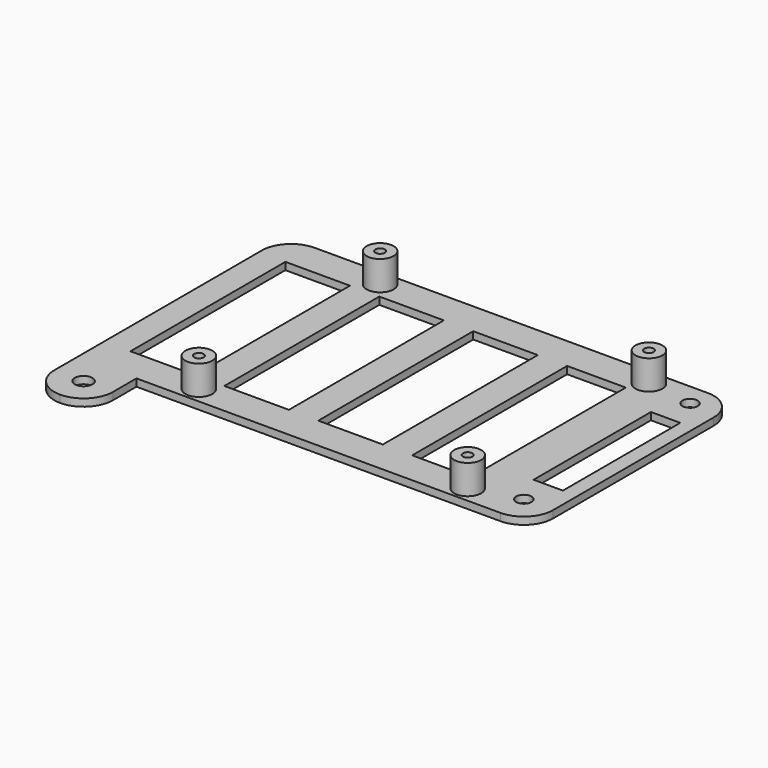
from build123d import *

# Parameters (mm, degrees)
F0_R     = 1.651
F0_W     = 6.35
F0_H     = 31.75
F0_R_2   = 1.905
F1_DEPTH = 1.5875
F2_W     = 12.7
F2_H     = 41.91
F2_W_2   = 13.97
F3_DEPTH = 6.35
F4_R     = 2.921
F4_R_2   = 1.016
F5_DEPTH = 6.35
F6_DEPTH = 6.35


with BuildPart() as f1:
    # F0 (on Top) → F1 (new body)
    with BuildSketch(Plane.XY):
        with BuildLine():
            Line((42.545, -28.067), (42.545, 28.067))
            Line((42.545, 28.067), (-36.195, 28.067))
            ThreePointArc((-36.195, 28.067), (-40.6851280605, 26.2071280605), (-42.545, 21.717))
            Line((-42.545, 21.717), (-42.545, -28.067))
            Line((-42.545, -28.067), (-29.845, -28.067))
            Line((-29.845, -28.067), (42.545, -28.067))
        make_face()
        with BuildLine():
            Line((48.895, 28.067), (42.545, 28.067))
            Line((42.545, 28.067), (42.545, -28.067))
            Line((42.545, -28.067), (48.895, -28.067))
            ThreePointArc((48.895, -28.067), (53.3851280605, -26.2071280605), (55.245, -21.717))
            Line((55.245, -21.717), (55.245, 21.717))
            ThreePointArc((55.245, 21.717), (53.3851280605, 26.2071280605), (48.895, 28.067))
        make_face()
        with Locations((48.895, -21.717)):
            Circle(F0_R, mode=Mode.SUBTRACT)
        with Locations((48.895, 0.762)):
            Rectangle(F0_W, F0_H, mode=Mode.SUBTRACT)
        with Locations((48.895, 23.241)):
            Circle(F0_R, mode=Mode.SUBTRACT)
        with BuildLine():
            Line((-29.845, -34.417), (-29.845, -28.067))
            Line((-29.845, -28.067), (-42.545, -28.067))
            Line((-42.545, -28.067), (-42.545, -34.417))
            ThreePointArc((-42.545, -34.417), (-40.6851280605, -38.9071280605), (-36.195, -40.767))
            ThreePointArc((-36.195, -40.767), (-31.7048719395, -38.9071280605), (-29.845, -34.417))
        make_face()
        with Locations((-36.195, -34.417)):
            Circle(F0_R_2, mode=Mode.SUBTRACT)
    extrude(amount=F1_DEPTH)

    # F2 (on face) → F3 (cut)
    with BuildSketch(Plane.XY.offset(1.5875)):
        with Locations((30.48, 0)):
            Rectangle(F2_W, F2_H)
        with Locations((10.795, 0)):
            Rectangle(F2_W_2, F2_H)
        with Locations((-9.525, 0)):
            Rectangle(F2_W_2, F2_H)
        with Locations((-29.845, 0)):
            Rectangle(F2_W_2, F2_H)
    extrude(amount=-F3_DEPTH, mode=Mode.SUBTRACT)

    # F4 (on face) → F5 (join)
    with BuildSketch(Plane.XY.offset(1.5875)):
        with Locations((38.989, 24.511)):
            Circle(F4_R)
        with Locations((38.989, 24.511)):
            Circle(F4_R_2, mode=Mode.SUBTRACT)
        with Locations((38.989, -24.511)):
            Circle(F4_R)
        with Locations((38.989, -24.511)):
            Circle(F4_R_2, mode=Mode.SUBTRACT)
        with Locations((-19.177, 24.511)):
            Circle(F4_R)
        with Locations((-19.177, 24.511)):
            Circle(F4_R_2, mode=Mode.SUBTRACT)
        with Locations((-19.177, -24.511)):
            Circle(F4_R)
        with Locations((-19.177, -24.511)):
            Circle(F4_R_2, mode=Mode.SUBTRACT)
    extrude(amount=F5_DEPTH)

    # F4 (on face) → F6 (cut)
    with BuildSketch(Plane.XY.offset(1.5875)):
        with Locations((38.989, -24.511)):
            Circle(F4_R_2)
        with Locations((-19.177, 24.511)):
            Circle(F4_R_2)
        with Locations((38.989, 24.511)):
            Circle(F4_R_2)
        with Locations((-19.177, -24.511)):
            Circle(F4_R_2)
    extrude(amount=-F6_DEPTH, mode=Mode.SUBTRACT)


solid = f1.part
